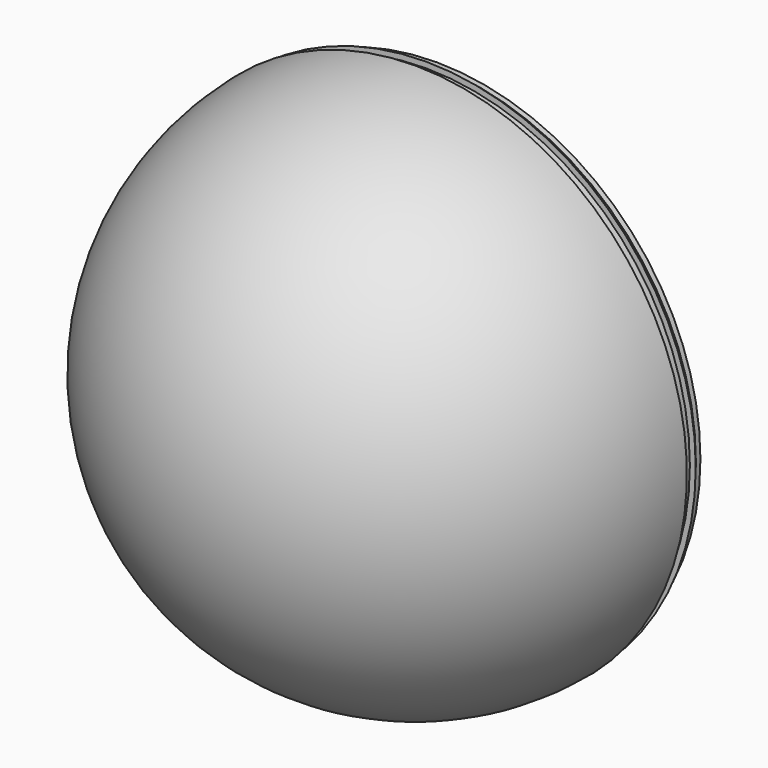
from build123d import *

# Parameters (mm, degrees)
F1_ANGLE = 180
F3_R     = 19.5
F3_R_2   = 16
F4_DEPTH = 2


with BuildPart() as f1:
    # F0 (on Front) → F1 (revolve)
    with BuildSketch(Plane.XZ):
        with BuildLine():
            ThreePointArc((0, -20.1), (20.1, 0), (0, 20.1))
            Line((0, 20.1), (0, -20.1))
        make_face()
    revolve(axis=Axis((0, 0, 0), (0, 0, -1)), revolution_arc=F1_ANGLE)

    # F3 (on Front) → F4 (join)
    with BuildSketch(Plane.XZ):
        Circle(F3_R)
        Circle(F3_R_2, mode=Mode.SUBTRACT)
    extrude(amount=-F4_DEPTH)

    # F2 (on Front) → F7 (revolve, cut)
    with BuildSketch(Plane.XZ):
        with BuildLine():
            ThreePointArc((16, 0), (11.313708, 11.313708), (0, 16))
            Line((0, 16), (0, 0))
            Line((0, 0), (0, -16))
            ThreePointArc((0, -16), (11.313708, -11.313708), (16, 0))
        make_face()
    revolve(axis=Axis((0, 0, 8), (0, 0, 1)), mode=Mode.SUBTRACT)


with BuildPart() as f6:
    # F5 (on Right) → F6 (revolve)
    with BuildSketch(Plane.YZ):
        Polygon((1.017524, 19.506669), (1.572773, 19.506669), (1.017524, 19.940296), align=None)
    revolve(axis=Axis((0, -5.369565, 0), (0, -1, 0)))


solid = Compound([f1.part, f6.part])
